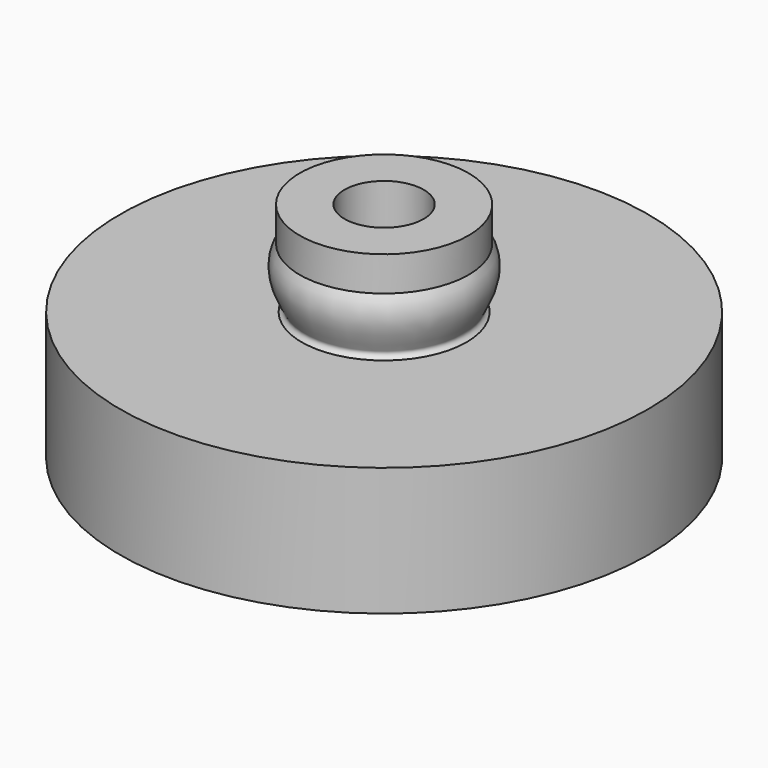
from build123d import *

# Parameters (mm, degrees)
F2_R     = 4.7625
F3_DEPTH = 9.525
F4_R     = 1.5875
F5_DEPTH = 20.9169


with BuildPart() as f1:
    # F0 (on Front) → F1 (revolve)
    with BuildSketch(Plane.XZ):
        with BuildLine():
            Line((0, 33.02), (0, 0))
            add(Edge.make_bspline(
                [(9.9140361241, 6.2119723298), (5.3911280841, 4.3766633401), (5.9293914696, 2.4382627623), (0, 0)],
                knots=[0.8288382909, 0.8288382909, 0.8288382909, 0.8288382909, 1, 1, 1, 1], degree=3))
            Line((9.9140361241, 6.2119723298), (9.9140361241, 13.9279487485))
            Line((9.9140361241, 13.9279487485), (9.9140361241, 21.6439251673))
            add(Edge.make_bspline(
                [(10.16, 28.857588768), (11.523254674, 26.9400200202), (10.1686139157, 23.2379404383), (9.2103585852, 22.1157759581), (9.9140361241, 21.6439251673)],
                knots=[0.1658124621, 0.1658124621, 0.1658124621, 0.1658124621, 0.2850146806, 0.3472062164, 0.3472062164, 0.3472062164, 0.3472062164], degree=3))
            add(Edge.make_bspline(
                [(0.6915654728, 33.02), (3.173352175, 32.8639093886), (8.4465738437, 31.2677125048), (10.16, 28.857588768)],
                knots=[0.0159914469, 0.0159914469, 0.0159914469, 0.0159914469, 0.1658124621, 0.1658124621, 0.1658124621, 0.1658124621], degree=3))
            Line((0.6915654728, 33.02), (0, 33.02))
        make_face()
        with BuildLine():
            Line((10.16, 33.02), (0.6915654728, 33.02))
            add(Edge.make_bspline(
                [(0.6915654728, 33.02), (3.173352175, 32.8639093886), (8.4465738437, 31.2677125048), (10.16, 28.857588768)],
                knots=[0.0159914469, 0.0159914469, 0.0159914469, 0.0159914469, 0.1658124621, 0.1658124621, 0.1658124621, 0.1658124621], degree=3))
            Line((10.16, 28.857588768), (10.16, 33.02))
        make_face()
        with BuildLine():
            Line((9.9140361241, 13.9279487485), (9.9140361241, 6.2119723298))
            add(Edge.make_bspline(
                [(31.75, 13.483504906), (30.91482321, 10.9141221863), (15.9329484904, 8.6543310681), (9.9140361241, 6.2119723298)],
                knots=[0.60106286, 0.60106286, 0.60106286, 0.60106286, 0.8288382909, 0.8288382909, 0.8288382909, 0.8288382909], degree=3))
            Line((31.75, 13.483504906), (31.75, 13.9279487485))
            Line((31.75, 13.9279487485), (9.9140361241, 13.9279487485))
        make_face()
        with BuildLine():
            Line((9.9140361241, 21.6439251673), (9.9140361241, 13.9279487485))
            Line((9.9140361241, 13.9279487485), (31.75, 13.9279487485))
            add(Edge.make_bspline(
                [(9.9140361241, 21.6439251673), (12.6387933507, 19.8168399172), (30.8403124733, 16.6836184602), (31.75, 13.9279487485)],
                knots=[0.3472062164, 0.3472062164, 0.3472062164, 0.3472062164, 0.5880222536, 0.5880222536, 0.5880222536, 0.5880222536], degree=3))
        make_face()
        with BuildLine():
            add(Edge.make_bspline(
                [(9.9140361241, 21.6439251673), (12.6387933507, 19.8168399172), (30.8403124733, 16.6836184602), (31.75, 13.9279487485)],
                knots=[0.3472062164, 0.3472062164, 0.3472062164, 0.3472062164, 0.5880222536, 0.5880222536, 0.5880222536, 0.5880222536], degree=3))
            Line((31.75, 13.9279487485), (31.75, 21.6439251673))
            Line((31.75, 21.6439251673), (9.9140361241, 21.6439251673))
        make_face()
        with BuildLine():
            add(Edge.make_bspline(
                [(31.75, 13.483504906), (30.91482321, 10.9141221863), (15.9329484904, 8.6543310681), (9.9140361241, 6.2119723298)],
                knots=[0.60106286, 0.60106286, 0.60106286, 0.60106286, 0.8288382909, 0.8288382909, 0.8288382909, 0.8288382909], degree=3))
            Line((9.9140361241, 6.2119723298), (31.75, 6.2119723298))
            Line((31.75, 6.2119723298), (31.75, 13.483504906))
        make_face()
    revolve(axis=Axis((0, 0, 16.51), (0, 0, 1)))

    # F2 (on face) → F3 (cut)
    with BuildSketch(Plane.XY.offset(33.02)):
        Circle(F2_R)
    extrude(amount=-F3_DEPTH, mode=Mode.SUBTRACT)

    # F4 (on Top) → F5 (cut)
    with BuildSketch(Plane.XY):
        Circle(F4_R)
    extrude(amount=F5_DEPTH, mode=Mode.SUBTRACT)


solid = f1.part
